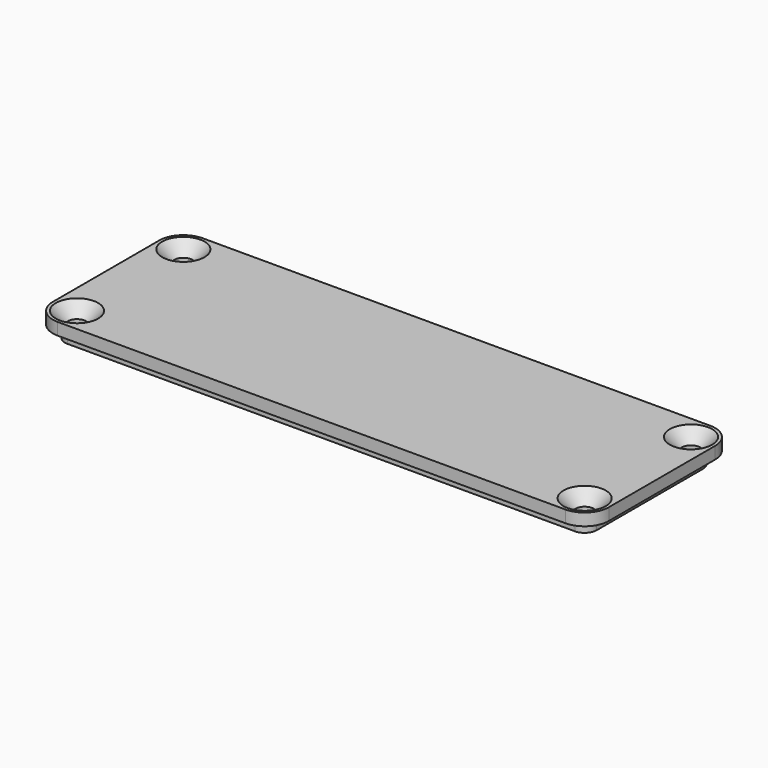
from build123d import *

# Parameters (mm, degrees)
PAD002_DEPTH                  = 2
PAD003_DEPTH                  = 2
SKETCH005_R                   = 1.5
POCKET001_DEPTH               = 226.7018
SKETCH005_MIRRORED002_2_R     = 1.5
POCKET001_MIRRORED002_2_DEPTH = 226.7018
CHAMFER_SIZE                  = 2


with BuildPart() as part:
    # Sketch003 → Pad002 (new body)
    with BuildSketch(Plane.XY.offset(31)):
        with BuildLine():
            Line((-42, 15), (42, 15))
            ThreePointArc((46, 11), (44.828427, 13.828427), (42, 15))
            Line((46, 11), (46, -11))
            ThreePointArc((42, -15), (44.828427, -13.828427), (46, -11))
            Line((42, -15), (-42, -15))
            ThreePointArc((-46, -11), (-44.828427, -13.828427), (-42, -15))
            Line((-46, -11), (-46, 11))
            ThreePointArc((-42, 15), (-44.828427, 13.828427), (-46, 11))
        make_face()
    extrude(amount=PAD002_DEPTH)

    # Sketch004 → Pad003 (join)
    with BuildSketch(Plane.XY.offset(31)):
        with BuildLine():
            Line((-42, 13), (42, 13))
            ThreePointArc((44, 11), (43.414214, 12.414214), (42, 13))
            Line((44, 11), (44, -11))
            ThreePointArc((42, -13), (43.414214, -12.414214), (44, -11))
            Line((42, -13), (-42, -13))
            ThreePointArc((-44, -11), (-43.414214, -12.414214), (-42, -13))
            Line((-44, -11), (-44, 11))
            ThreePointArc((-42, 13), (-43.414214, 12.414214), (-44, 11))
        make_face()
    extrude(amount=-PAD003_DEPTH)

    # Sketch005 → Pocket001 (cut, through all)
    with BuildSketch(Plane.XY):
        with Locations((-42, 11)):
            Circle(SKETCH005_R)
    pocket001 = extrude(amount=POCKET001_DEPTH, mode=Mode.SUBTRACT)

    # Sketch005 Mirrored002 2 → Pocket001 Mirrored002 2 (cut, through all)
    with BuildSketch(Plane(origin=(0, 0, 0), x_dir=(-1, 0, 0), z_dir=(0, 0, -1))):
        with Locations((-42, 11)):
            Circle(SKETCH005_MIRRORED002_2_R)
    pocket001_mirrored002_2 = extrude(amount=-POCKET001_MIRRORED002_2_DEPTH, mode=Mode.SUBTRACT)

    # Mirrored003: Pocket001, Pocket001 Mirrored002 2 across Sketch005 H_Axis
    add(pocket001.mirror(Plane.ZX), mode=Mode.SUBTRACT)
    add(pocket001_mirrored002_2.mirror(Plane.ZX), mode=Mode.SUBTRACT)

    # Chamfer
    chamfer_edges = [part.edges().sort_by_distance(p)[0] for p in [
        (-43.5, -11, 33),
        (-43.5, 11, 33),
        (43.5, 11, 33),
        (43.5, -11, 33),
    ]]
    chamfer(chamfer_edges, length=CHAMFER_SIZE)


solid = part.part
